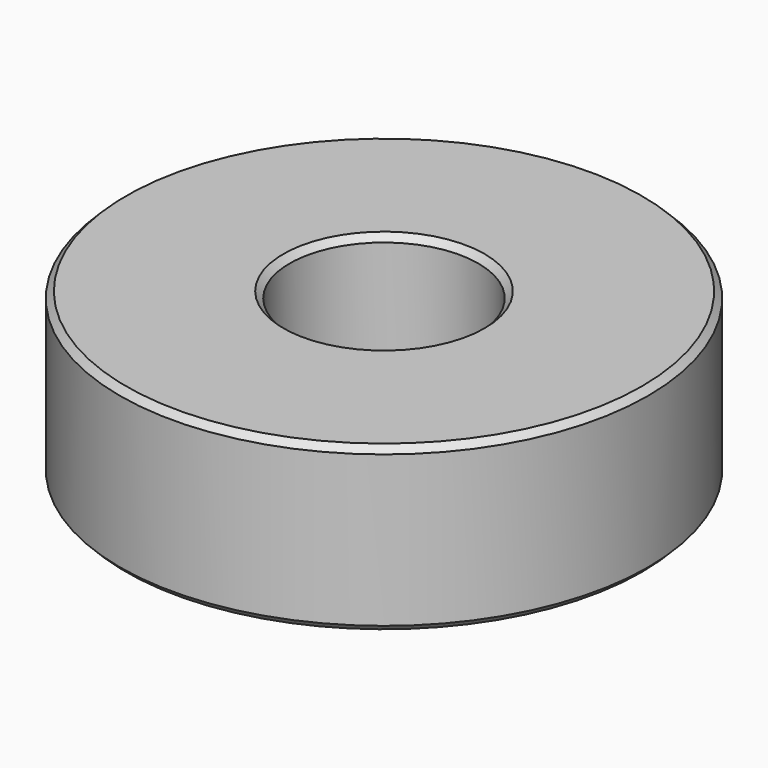
from build123d import *

# Parameters (mm, degrees)
F0_R     = 21
F1_DEPTH = 13
F2_R     = 7.5
F3_DEPTH = 37.3
F4_SIZE  = 0.5


with BuildPart() as f1:
    # F0 (on Top) → F1 (new body)
    with BuildSketch(Plane.XY):
        Circle(F0_R)
    extrude(amount=F1_DEPTH)

    # F2 (on face) → F3 (cut)
    with BuildSketch(Plane.XY.offset(13)):
        Circle(F2_R)
    extrude(amount=-F3_DEPTH, mode=Mode.SUBTRACT)

    # F4
    f4_edges = [f1.edges().sort_by_distance(p)[0] for p in [
        (-21, 0, 13),
        (-7.5, 0, 13),
        (-21, 0, 0),
        (-7.5, 0, 0),
    ]]
    chamfer(f4_edges, length=F4_SIZE)


solid = f1.part
